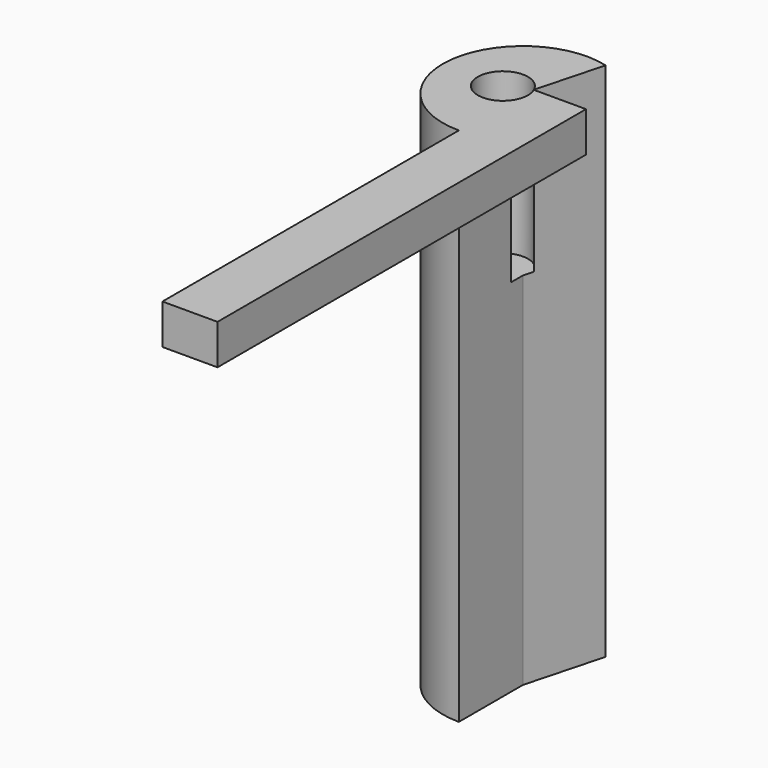
from build123d import *

# Parameters (mm, degrees)
CYLINDER006_R               = 1.25
CYLINDER006_DEPTH           = 10
BOX004_W                    = 23
BOX004_H                    = 2.75
BOX004_DEPTH                = 2
CYLINDER001_W               = 4
CYLINDER001_H               = 26
CYLINDER001_ANGLE           = 195
CYLINDER001_PLACEMENT_ANGLE = 75


with BuildPart() as obj1:
    # Cylinder006 → Cylinder006 (new body)
    with BuildSketch(Plane(origin=(-1, 12.5, 4), x_dir=(1, 0, 0), z_dir=(0, 0, 1))):
        Circle(CYLINDER006_R)
    extrude(amount=CYLINDER006_DEPTH)


with BuildPart() as w012:
    # Box004 → Box004 (new body)
    with BuildSketch(Plane(origin=(2.75, -10, 10), x_dir=(0, 1, 0), z_dir=(0, 0, 1))):
        with Locations((11.5, 1.375)):
            Rectangle(BOX004_W, BOX004_H)
    extrude(amount=BOX004_DEPTH)


with BuildPart() as cut003_w:
    # Cylinder001 → Cylinder001 (revolve)
    with BuildSketch(Plane.XZ):
        with Locations((2, 13)):
            Rectangle(CYLINDER001_W, CYLINDER001_H)
    revolve(axis=Axis((0, 0, 0), (0, 0, 1)), revolution_arc=CYLINDER001_ANGLE)


with BuildPart() as cut003_w_1:
    # Cylinder001 placement: moved
    add(cut003_w.part.moved(Location((0, 12.5, -14))).rotate(Axis((0, 12.5, -14), (0, 0, 1)), CYLINDER001_PLACEMENT_ANGLE))

    # Fusion003: union W012
    add(w012.part)

    # Cut003: cut obj1
    add(obj1.part, mode=Mode.SUBTRACT)


with BuildPart() as cut003_w_2:
    # Cut003 placement: moved
    add(cut003_w_1.part.moved(Location((0, 20, 0))))


solid = cut003_w_2.part
